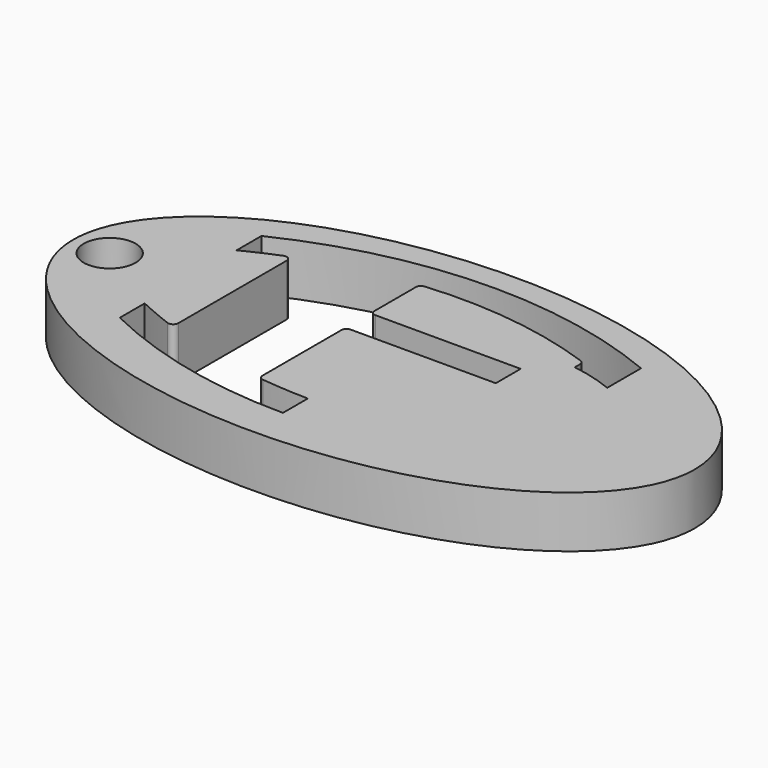
from build123d import *

# Parameters (mm, degrees)
F0_R     = 1.5875
F1_DEPTH = 3.175


with BuildPart() as f1:
    # F0 (on Top) → F1 (new body)
    with BuildSketch(Plane.XY):
        with BuildLine():
            add(Edge.make_bspline(
                [(19.05, 0), (19.05, 17.597636), (-9.525, 8.798818), (-38.1, 0), (-9.525, -8.798818), (19.05, -17.597636), (19.05, 0)],
                knots=[0, 0, 0, 2.094395, 2.094395, 4.18879, 4.18879, 6.283185, 6.283185, 6.283185], degree=2, weights=[1, 0.5, 1, 0.5, 1, 0.5, 1]))
        make_face()
        with Locations((-16.807595, 0)):
            Circle(F0_R, mode=Mode.SUBTRACT)
        with BuildLine():
            ThreePointArc((-12.25387, 5.929703), (-0.948606, 8.670792), (10.493039, 6.570473))
            Line((10.493039, 6.570473), (10.493039, 3.975802))
            ThreePointArc((10.493039, 3.975802), (9.244345, 4.401203), (7.953039, 4.670882))
            Line((7.953039, 4.670882), (7.953039, 5.081942))
            ThreePointArc((7.953039, 5.081942), (7.894587, 5.265519), (7.740753, 5.381502))
            ThreePointArc((7.740753, 5.381502), (2.499197, 6.617407), (-2.885109, 6.720484))
            ThreePointArc((-2.885109, 6.720484), (-3.091564, 6.61871), (-3.175, 6.404187))
            Line((-3.175, 6.404187), (-3.175, 3.243328))
            ThreePointArc((-3.175, 3.243328), (-3.082006, 3.018822), (-2.8575, 2.925828))
            Line((-2.8575, 2.925828), (6.0325, 2.925828))
            Line((6.0325, 2.925828), (6.0325, 1.020828))
            Line((6.0325, 1.020828), (-2.8575, 1.020828))
            ThreePointArc((-2.8575, 1.020828), (-3.082006, 0.927834), (-3.175, 0.703328))
            Line((-3.175, 0.703328), (-3.175, -5.337888))
            ThreePointArc((-3.175, -5.337888), (-3.094181, -5.549521), (-2.892868, -5.653412))
            ThreePointArc((-2.892868, -5.653412), (-1.448652, -5.779925), (0, -5.836267))
            Line((0, -5.836267), (0, -7.74302))
            ThreePointArc((0, -7.74302), (-6.287967, -7.028054), (-12.25387, -4.916727))
            Line((-12.25387, -4.916727), (-12.25387, -3.011727))
            ThreePointArc((-12.25387, -3.011727), (-11.207366, -3.478193), (-10.143754, -3.904211))
            ThreePointArc((-10.143754, -3.904211), (-9.85092, -3.868502), (-9.71387, -3.607266))
            Line((-9.71387, -3.607266), (-9.71387, 4.689345))
            ThreePointArc((-9.71387, 4.689345), (-9.853594, 4.952408), (-10.149788, 4.983936))
            ThreePointArc((-10.149788, 4.983936), (-11.212751, 4.528276), (-12.25387, 4.024703))
            Line((-12.25387, 4.024703), (-12.25387, 5.929703))
        make_face(mode=Mode.SUBTRACT)
    extrude(amount=F1_DEPTH)


solid = f1.part
